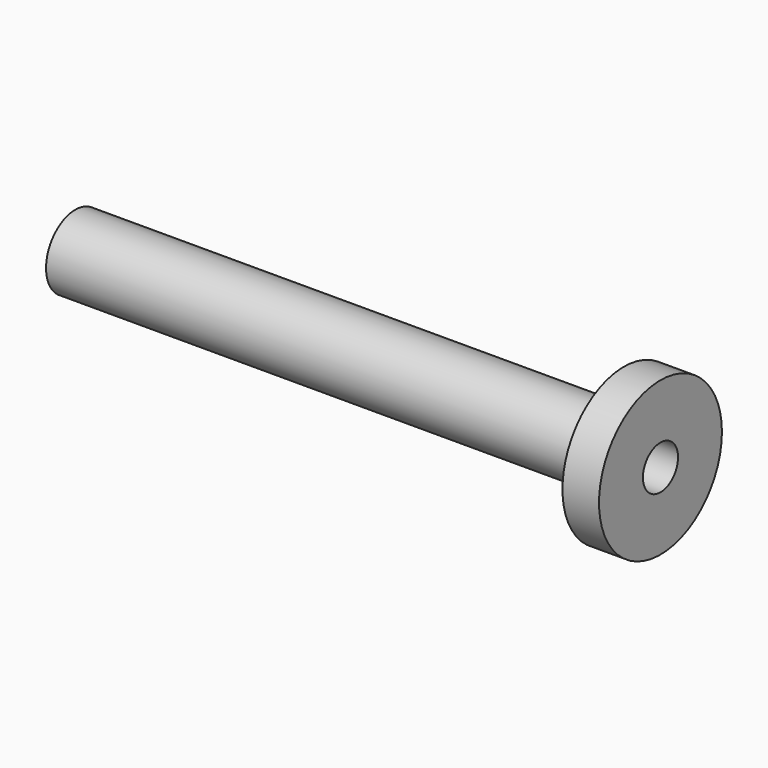
from build123d import *


with BuildPart() as part:
    # Sketch001 → Revolution (revolve)
    with BuildSketch(Plane.XY):
        Polygon((-80, 6), (80, 6), (80, 21), (70, 21), (70, 10), (-80, 10), align=None)
    revolve(axis=Axis((0, 0, 0), (1, 0, 0)))


solid = part.part
